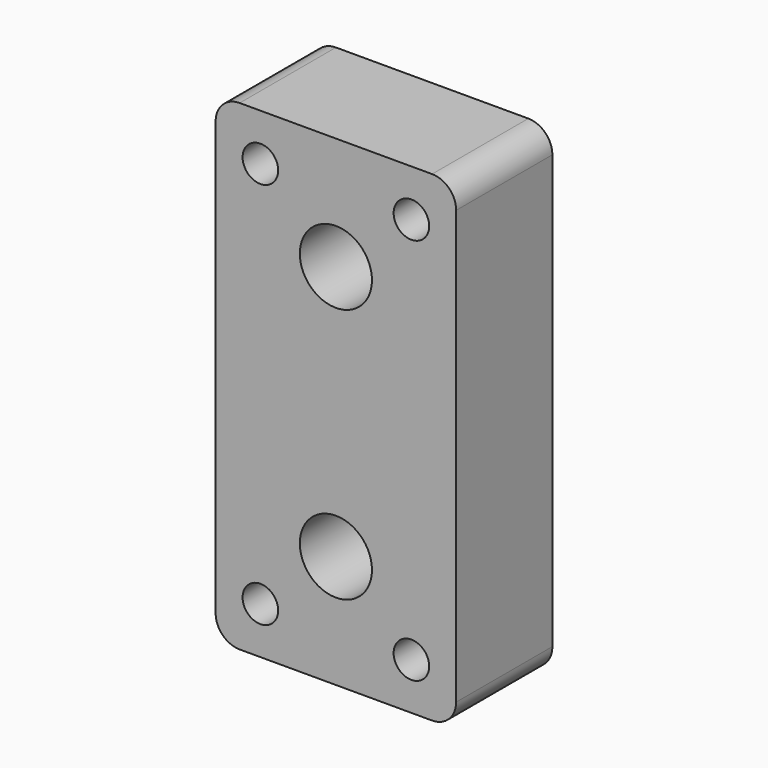
from build123d import *

# Parameters (mm, degrees)
F0_W     = 50.8
F0_H     = 101.6
F0_R     = 7.62
F1_DEPTH = 25.4
F2_R     = 5.08
F3_R     = 3.752901
F4_DEPTH = 25.4


with BuildPart() as f1:
    # F0 (on Front) → F1 (new body)
    with BuildSketch(Plane.XZ):
        Rectangle(F0_W, F0_H)
        with Locations((0, -26.934734)):
            Circle(F0_R, mode=Mode.SUBTRACT)
        with Locations((0, 26.934734)):
            Circle(F0_R, mode=Mode.SUBTRACT)
    extrude(amount=F1_DEPTH)

    # F2
    f2_edges = [f1.edges().sort_by_distance(p)[0] for p in [
        (25.4, -12.7, -50.8),
        (25.4, -12.7, 50.8),
        (-25.4, -12.7, 50.8),
        (-25.4, -12.7, -50.8),
    ]]
    fillet(f2_edges, radius=F2_R)

    # F3 (on face) → F4 (cut)
    with BuildSketch(Plane(origin=(0, 0, 0), x_dir=(-1, 0, 0), z_dir=(0, 1, 0))):
        with Locations((-15.947323, 40.916275)):
            Circle(F3_R)
        with Locations((15.947323, 40.916275)):
            Circle(F3_R)
        with Locations((15.947323, -40.916275)):
            Circle(F3_R)
        with Locations((-15.947323, -40.916275)):
            Circle(F3_R)
    extrude(amount=-F4_DEPTH, mode=Mode.SUBTRACT)


solid = f1.part
